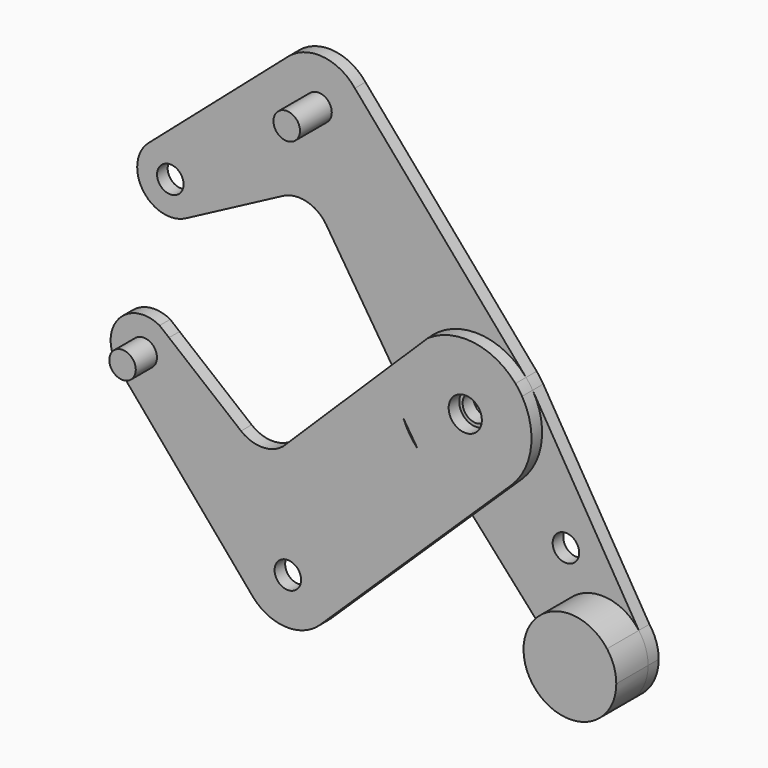
from build123d import *

# Parameters (mm, degrees)
F0_R     = 3.9751
F0_R_2   = 3.175
F1_DEPTH = 3.175
F2_DEPTH = 3.175
F4_DEPTH = 9.525


with BuildPart() as f1:
    # F0 (on Front) → F1 (new body)
    with BuildSketch(Plane.XZ):
        with BuildLine():
            ThreePointArc((-5.3127557425, 63.1347790551), (-3.525631751, 59.8857583818), (-2.9069614474, 56.2296409669))
            ThreePointArc((-2.9069614474, 56.2296409669), (-18.6251583345, 46.116520161), (-21.3141987809, 64.6126275161))
            Line((-21.3141987809, 64.6126275161), (-54.737529258, 35.5281937994))
            ThreePointArc((-54.737529258, 35.5281937994), (-46.2372191005, 36.7640039827), (-41.5895025912, 29.5403462642))
            ThreePointArc((-41.5895025912, 29.5403462642), (-42.7285574594, 25.4433900722), (-45.8188065382, 22.5222846884))
            Line((-45.8188065382, 22.5222846884), (-22.625150159, 34.7773246467))
            ThreePointArc((-22.625150159, 34.7773246467), (-16.8569045119, 35.4909788107), (-12.144523957, 32.088710506))
            Line((-12.144523957, 32.088710506), (3.7133936542, 7.4163528596))
            Line((3.7133936542, 7.4163528596), (10.7353477508, 14.3232909653))
            ThreePointArc((10.7353477508, 14.3232909653), (12.5449977515, 16.4472846117), (14.6985856273, 18.2216130469))
            ThreePointArc((14.6985856273, 18.2216130469), (25.7261792861, 20.8718790141), (35.7079737596, 15.487131045))
            Line((35.7079737596, 15.487131045), (-5.3127557425, 63.1347790551))
        make_face()
        with BuildLine():
            ThreePointArc((37.2888219021, 13.2991536525), (36.5449865014, 14.4268033973), (35.7079737596, 15.487131045))
            ThreePointArc((35.7079737596, 15.487131045), (25.7261792861, 20.8718790141), (14.6985856273, 18.2216130469))
            Line((14.6985856273, 18.2216130469), (10.7353477508, 14.3232909653))
            ThreePointArc((10.7353477508, 14.3232909653), (7.9228485059, 7.0827485045), (8.8821439076, -0.6253874221))
            Line((8.8821439076, -0.6253874221), (12.2974068631, -5.9389847782))
            ThreePointArc((12.2974068631, -5.9389847782), (23.4379734075, -10.743537999), (34.718293483, -6.2769583705))
            ThreePointArc((34.718293483, -6.2769583705), (38.2938852735, -1.0646535641), (39.5522467868, 5.1296586938))
            ThreePointArc((39.5522467868, 5.1296586938), (38.9759294091, 9.3682828836), (37.2888219021, 13.2991536525))
        make_face()
        with Locations((23.6772467868, 5.1296586938)):
            Circle(F0_R, mode=Mode.SUBTRACT)
        with BuildLine():
            Line((62.7313325952, -29.0917955033), (37.2888219021, 13.2991536525))
            ThreePointArc((37.2888219021, 13.2991536525), (38.9759294091, 9.3682828836), (39.5522467868, 5.1296586938))
            ThreePointArc((39.5522467868, 5.1296586938), (38.2938852735, -1.0646535641), (34.718293483, -6.2769583705))
            Line((34.718293483, -6.2769583705), (22.861570702, -17.7536858036))
            Line((22.861570702, -17.7536858036), (44.9044808209, -42.3639788264))
            ThreePointArc((44.9044808209, -42.3639788264), (47.1985006827, -26.8368729907), (62.7313325952, -29.0917955033))
        make_face()
        with Locations((45.2562570572, -17.3768736422)):
            Circle(F0_R_2, mode=Mode.SUBTRACT)
        with BuildLine():
            ThreePointArc((64.9471133741, -35.7503271246), (64.3786270453, -32.2415621064), (62.7313325952, -29.0917955033))
            ThreePointArc((62.7313325952, -29.0917955033), (47.1985006827, -26.8368729907), (44.9044808209, -42.3639788264))
            ThreePointArc((44.9044808209, -42.3639788264), (57.3168223176, -46.3031408311), (64.9471133741, -35.7503271246))
        make_face()
        with Locations((53.8346133741, -35.7503271246)):
            Circle(F0_R_2, mode=Mode.SUBTRACT)
        with BuildLine():
            ThreePointArc((-21.3141987809, 64.6126275161), (-18.6251583345, 46.116520161), (-2.9069614474, 56.2296409669))
            ThreePointArc((-2.9069614474, 56.2296409669), (-3.525631751, 59.8857583818), (-5.3127557425, 63.1347790551))
            ThreePointArc((-5.3127557425, 63.1347790551), (-12.9974914435, 67.295048034), (-21.3141987809, 64.6126275161))
        make_face()
        with Locations((-14.0194614474, 56.2296409669)):
            Circle(F0_R_2, mode=Mode.SUBTRACT)
        with BuildLine():
            ThreePointArc((-41.5895025912, 29.5403462642), (-46.2372191005, 36.7640039827), (-54.737529258, 35.5281937994))
            ThreePointArc((-54.737529258, 35.5281937994), (-56.0731974607, 25.0513331231), (-45.8188065382, 22.5222846884))
            ThreePointArc((-45.8188065382, 22.5222846884), (-42.7285574594, 25.4433900722), (-41.5895025912, 29.5403462642))
        make_face()
        with Locations((-49.5270025912, 29.5403462642)):
            Circle(F0_R_2, mode=Mode.SUBTRACT)
        with BuildLine():
            Line((22.861570702, -17.7536858036), (34.718293483, -6.2769583705))
            ThreePointArc((34.718293483, -6.2769583705), (23.4379734075, -10.743537999), (12.2974068631, -5.9389847782))
            Line((12.2974068631, -5.9389847782), (12.3431713564, -6.0101869358))
            Line((12.3431713564, -6.0101869358), (22.861570702, -17.7536858036))
        make_face()
        with Locations((23.6772467868, 5.1296586938)):
            Circle(F0_R)
        with Locations((23.6772467868, 5.1296586938)):
            Circle(F0_R_2, mode=Mode.SUBTRACT)
        with BuildLine():
            ThreePointArc((8.8821439076, -0.6253874221), (7.9228485059, 7.0827485045), (10.7353477508, 14.3232909653))
            Line((10.7353477508, 14.3232909653), (3.7133936542, 7.4163528596))
            Line((3.7133936542, 7.4163528596), (8.8821439076, -0.6253874221))
        make_face()
    extrude(amount=-F1_DEPTH)


with BuildPart() as f2:
    # F0 (on Front) → F2 (new body)
    with BuildSketch(Plane.XZ):
        with BuildLine():
            ThreePointArc((37.2888219021, 13.2991536525), (36.5449865014, 14.4268033973), (35.7079737596, 15.487131045))
            ThreePointArc((35.7079737596, 15.487131045), (25.7261792861, 20.8718790141), (14.6985856273, 18.2216130469))
            Line((14.6985856273, 18.2216130469), (10.7353477508, 14.3232909653))
            ThreePointArc((10.7353477508, 14.3232909653), (7.9228485059, 7.0827485045), (8.8821439076, -0.6253874221))
            Line((8.8821439076, -0.6253874221), (12.2974068631, -5.9389847782))
            ThreePointArc((12.2974068631, -5.9389847782), (23.4379734075, -10.743537999), (34.718293483, -6.2769583705))
            ThreePointArc((34.718293483, -6.2769583705), (38.2938852735, -1.0646535641), (39.5522467868, 5.1296586938))
            ThreePointArc((39.5522467868, 5.1296586938), (38.9759294091, 9.3682828836), (37.2888219021, 13.2991536525))
        make_face()
        with Locations((23.6772467868, 5.1296586938)):
            Circle(F0_R, mode=Mode.SUBTRACT)
        with BuildLine():
            ThreePointArc((8.8821439076, -0.6253874221), (7.9228485059, 7.0827485045), (10.7353477508, 14.3232909653))
            Line((10.7353477508, 14.3232909653), (3.7133936542, 7.4163528596))
            Line((3.7133936542, 7.4163528596), (8.8821439076, -0.6253874221))
        make_face()
        with BuildLine():
            Line((22.861570702, -17.7536858036), (34.718293483, -6.2769583705))
            ThreePointArc((34.718293483, -6.2769583705), (23.4379734075, -10.743537999), (12.2974068631, -5.9389847782))
            Line((12.2974068631, -5.9389847782), (12.3431713564, -6.0101869358))
            Line((12.3431713564, -6.0101869358), (22.861570702, -17.7536858036))
        make_face()
        with BuildLine():
            ThreePointArc((12.2974068631, -5.9389847782), (10.3228285329, -3.45376359), (8.8821439076, -0.6253874221))
            Line((8.8821439076, -0.6253874221), (3.7133936542, 7.4163528596))
            Line((3.7133936542, 7.4163528596), (-19.9936484697, -15.9023801261))
            ThreePointArc((-19.9936484697, -15.9023801261), (-25.0150598586, -17.6888874259), (-30.0364712475, -15.9023801261))
            Line((-30.0364712475, -15.9023801261), (-47.3022995151, -1.8363273688))
            ThreePointArc((-47.3022995151, -1.8363273688), (-45.9057292748, -4.2350360326), (-45.4204246014, -6.9679266385))
            ThreePointArc((-45.4204246014, -6.9679266385), (-50.4530203401, -14.3547688247), (-59.1691962507, -12.3746842684))
            Line((-59.1691962507, -12.3746842684), (-27.2982812561, -49.8464654343))
            ThreePointArc((-27.2982812561, -49.8464654343), (-25.8826153725, -34.0563496428), (-10.1199282001, -35.7503271246))
            ThreePointArc((-10.1199282001, -35.7503271246), (-8.3378155575, -38.995927856), (-7.7209494347, -42.6468627726))
            ThreePointArc((-7.7209494347, -42.6468627726), (-8.3378155575, -46.2977976891), (-10.1199282001, -49.5433984205))
            ThreePointArc((-10.1199282001, -49.5433984205), (-10.5806264467, -50.0885406061), (-11.0753700137, -50.6029836833))
            Line((-11.0753700137, -50.6029836833), (22.861570702, -17.7536858036))
            Line((22.861570702, -17.7536858036), (12.3431713564, -6.0101869358))
            Line((12.3431713564, -6.0101869358), (12.2974068631, -5.9389847782))
        make_face()
        with BuildLine():
            Line((-10.1199282001, -35.7503271246), (-10.1199282001, -49.5433984205))
            ThreePointArc((-10.1199282001, -49.5433984205), (-8.3378155575, -46.2977976891), (-7.7209494347, -42.6468627726))
            ThreePointArc((-7.7209494347, -42.6468627726), (-8.3378155575, -38.995927856), (-10.1199282001, -35.7503271246))
        make_face()
        with BuildLine():
            ThreePointArc((-27.2982812561, -49.8464654343), (-19.3510928488, -53.7472997705), (-11.0753700137, -50.6029836833))
            ThreePointArc((-11.0753700137, -50.6029836833), (-10.5806264467, -50.0885406061), (-10.1199282001, -49.5433984205))
            Line((-10.1199282001, -49.5433984205), (-10.1199282001, -35.7503271246))
            ThreePointArc((-10.1199282001, -35.7503271246), (-25.8826153725, -34.0563496428), (-27.2982812561, -49.8464654343))
        make_face()
        with Locations((-18.8334494347, -42.6468627726)):
            Circle(F0_R_2, mode=Mode.SUBTRACT)
        with BuildLine():
            ThreePointArc((-45.4204246014, -6.9679266385), (-45.9057292748, -4.2350360326), (-47.3022995151, -1.8363273688))
            Line((-47.3022995151, -1.8363273688), (-49.556358528, 0))
            ThreePointArc((-49.556358528, 0), (-59.6263320396, -2.0985350504), (-59.1691962507, -12.3746842684))
            ThreePointArc((-59.1691962507, -12.3746842684), (-50.4530203401, -14.3547688247), (-45.4204246014, -6.9679266385))
        make_face()
        with Locations((-53.3579246014, -6.9679266385)):
            Circle(F0_R_2, mode=Mode.SUBTRACT)
    extrude(amount=F2_DEPTH)


with BuildPart() as f4:
    # F0 (on Front) → F4 (new body, through all)
    with BuildSketch(Plane.XZ):
        with Locations((-14.0194614474, 56.2296409669)):
            Circle(F0_R_2)
    extrude(amount=F4_DEPTH)


with BuildPart() as f4b:
    # F0 (on Front) → F4, piece 2 (new body, through all)
    with BuildSketch(Plane.XZ):
        with BuildLine():
            ThreePointArc((64.9471133741, -35.7503271246), (64.3786270453, -32.2415621064), (62.7313325952, -29.0917955033))
            ThreePointArc((62.7313325952, -29.0917955033), (47.1985006827, -26.8368729907), (44.9044808209, -42.3639788264))
            ThreePointArc((44.9044808209, -42.3639788264), (57.3168223176, -46.3031408311), (64.9471133741, -35.7503271246))
        make_face()
        with Locations((53.8346133741, -35.7503271246)):
            Circle(F0_R_2, mode=Mode.SUBTRACT)
        with Locations((53.8346133741, -35.7503271246)):
            Circle(F0_R_2)
    extrude(amount=F4_DEPTH)


with BuildPart() as f4c:
    # F0 (on Front) → F4, piece 3 (new body, through all)
    with BuildSketch(Plane.XZ):
        with Locations((-53.3579246014, -6.9679266385)):
            Circle(F0_R_2)
    extrude(amount=F4_DEPTH)


solid = Compound([f1.part, f2.part, f4.part, f4b.part, f4c.part])
